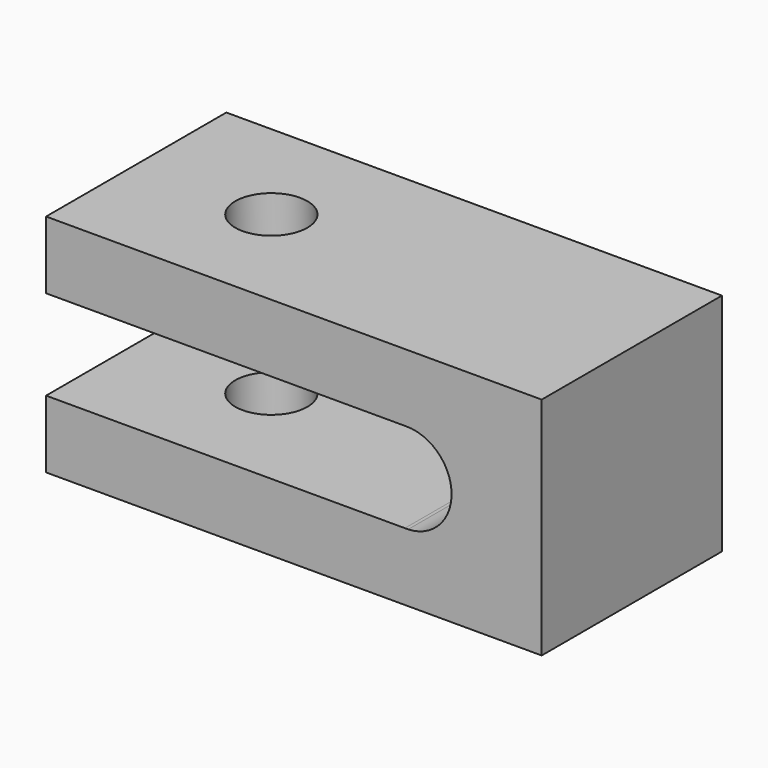
from build123d import *

# Parameters (mm, degrees)
F1_DEPTH = 25
F2_R     = 4
F3_DEPTH = 25


with BuildPart() as f1:
    # F0 (on Front) → F1 (new body)
    with BuildSketch(Plane.XZ):
        with BuildLine():
            Line((27.5, 12.5), (-27.5, 12.5))
            Line((-27.5, 12.5), (-27.5, 4.999979))
            Line((-27.5, 4.999979), (12.48553, 4.999979))
            ThreePointArc((12.48553, 4.999979), (12.5, 5), (12.51447, 4.999979))
            ThreePointArc((12.51447, 4.999979), (17.499322, 0.08231), (12.679058, -4.996793))
            ThreePointArc((12.679058, -4.996793), (12.5, -5), (12.320942, -4.996793))
            Line((12.320942, -4.996793), (-27.5, -4.996793))
            Line((-27.5, -4.996793), (-27.5, -12.5))
            Line((-27.5, -12.5), (27.5, -12.5))
            Line((27.5, -12.5), (27.5, 12.5))
        make_face()
    extrude(amount=F1_DEPTH)

    # F2 (on face) → F3 (cut)
    with BuildSketch(Plane(origin=(0, 0, -12.5), x_dir=(1, 0, 0), z_dir=(0, 0, -1))):
        with Locations((-12.5, 12.5)):
            Circle(F2_R)
    extrude(amount=-F3_DEPTH, mode=Mode.SUBTRACT)


solid = f1.part
